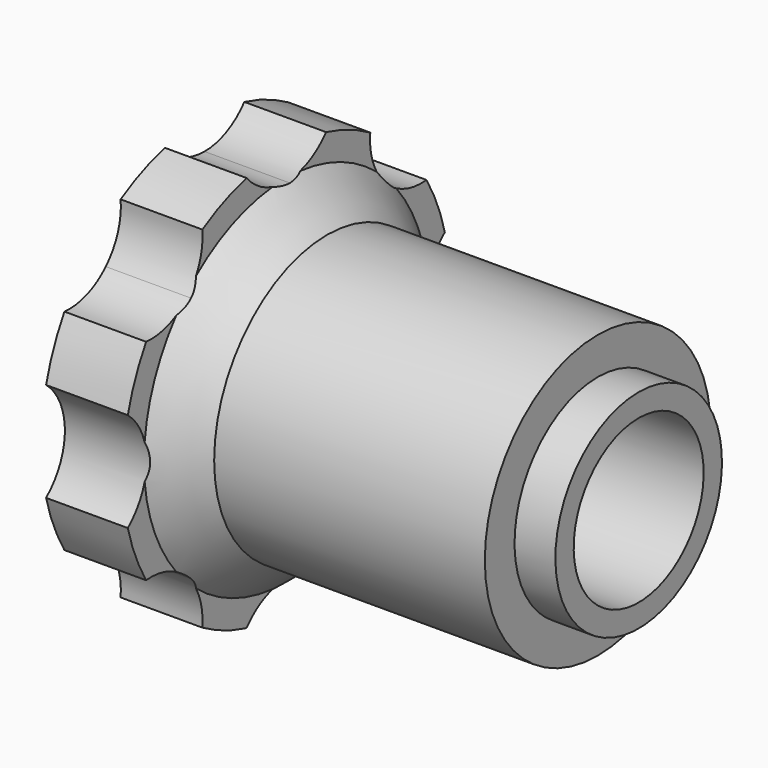
from build123d import *

# Parameters (mm, degrees)
F2_R     = 8
F3_DEPTH = 25


with BuildPart() as f1:
    # F0 (on Front) → F1 (revolve)
    with BuildSketch(Plane.XZ):
        Polygon((24.92856, 7.9248), (24.92856, 12.542502), (-8.72644, 12.542502), (-13.80644, 17.102293), (-13.80644, 20.379981), (-23.96644, 20.379981), (-23.96644, 2.599981), (-31.292418, 2.599981), (-31.292418, -5.020019), (4.60856, -5.020019), (4.60856, 5.08), (30.00856, 5.08), (30.00856, 7.9248), align=None)
    revolve(axis=Axis((-13.341929, 0, -5.020019), (1, 0, 0)))

    # F2 (on face) → F3 (cut)
    with BuildSketch(Plane(origin=(-23.96644, 0, 0), x_dir=(0, -1, 0), z_dir=(-1, 0, 0))):
        with BuildLine():
            ThreePointArc((8, 24.70155), (-5.656854, 30.358404), (0, 16.70155))
            ThreePointArc((0, 16.70155), (5.656854, 19.044696), (8, 24.70155))
        make_face()
        with BuildLine():
            ThreePointArc((8, -34.741588), (5.656854, -29.084734), (0, -26.741588))
            ThreePointArc((0, -26.741588), (-5.656854, -40.398442), (8, -34.741588))
        make_face()
        with Locations((-29.721569, -5.020019)):
            Circle(F2_R)
        with BuildLine():
            ThreePointArc((37.721569, -5.020019), (29.721569, 2.979981), (21.721569, -5.020019))
            ThreePointArc((21.721569, -5.020019), (29.721569, -13.020019), (37.721569, -5.020019))
        make_face()
        with BuildLine():
            ThreePointArc((-13.016323, 15.996304), (-28.407359, 19.057771), (-15.359469, 10.33945))
            ThreePointArc((-15.359469, 10.33945), (-13.625287, 12.934836), (-13.016323, 15.996304))
        make_face()
        with BuildLine():
            ThreePointArc((29.016323, 15.996304), (17.954856, 23.38734), (15.359469, 10.33945))
            ThreePointArc((15.359469, 10.33945), (24.07779, 8.605268), (29.016323, 15.996304))
        make_face()
        with BuildLine():
            ThreePointArc((29.016323, -26.036342), (24.07779, -18.645306), (15.359469, -20.379488))
            ThreePointArc((15.359469, -20.379488), (17.954856, -33.427378), (29.016323, -26.036342))
        make_face()
        with BuildLine():
            ThreePointArc((-13.379907, -25.666356), (-13.962437, -22.669503), (-15.625189, -20.109089))
            ThreePointArc((-15.625189, -20.109089), (-28.797378, -28.663208), (-13.379907, -25.666356))
        make_face()
    extrude(amount=-F3_DEPTH, mode=Mode.SUBTRACT)


solid = f1.part
